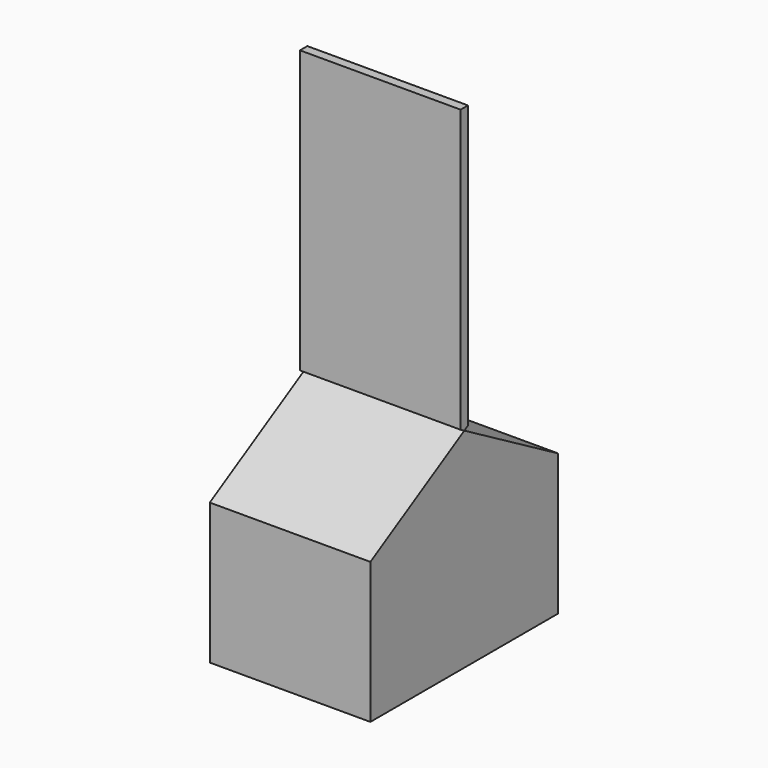
from build123d import *

# Parameters (mm, degrees)
F1_DEPTH = 43.434


with BuildPart() as f1:
    # F0 (on Right) → F1 (new body)
    with BuildSketch(Plane.YZ):
        Polygon((-31.75, -27.373354), (-31.75, -65.473354), (31.75, -65.473354), (31.75, -27.373354), (0, -9.042483), align=None)
        Polygon((-1.245568, -8.323354), (0, -9.042483), (1.245568, -8.323354), (1.245568, 67.876646), (0, 67.876646), (-1.245568, 67.876646), align=None)
    extrude(amount=F1_DEPTH)


solid = f1.part
